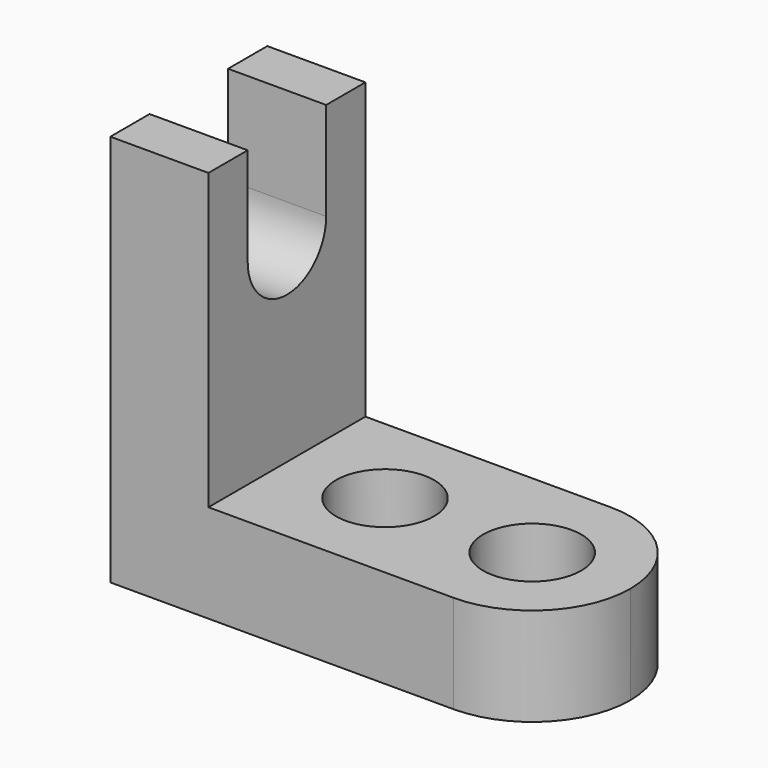
from build123d import *

# Parameters (mm, degrees)
F1_DEPTH = 50.8
F3_DEPTH = 25.4
F5_DEPTH = 12.7
F6_DEPTH = 12.7
F8_DEPTH = 25.401
F4_R     = 12.7
F9_DEPTH = 25.401


with BuildPart() as f1:
    # F0 (on Front) → F1 (new body)
    with BuildSketch(Plane.XZ):
        Polygon((-36.9852854972, 36.8870242119), (-62.3852854972, 36.8870242119), (-62.3852854972, -64.7129757881), (64.6147145028, -64.7129757881), (64.6147145028, -39.3129757881), (-36.9852854972, -39.3129757881), align=None)
    extrude(amount=F1_DEPTH)

    # F2 (on face) → F3 (cut)
    with BuildSketch(Plane.XY.offset(-39.3129757881)):
        with BuildLine():
            ThreePointArc((64.6147145028, -25.4), (57.1752267449, -43.3605122421), (39.2147145028, -50.8))
            Line((39.2147145028, -50.8), (64.6147145028, -50.8))
            Line((64.6147145028, -50.8), (64.6147145028, -25.4))
        make_face()
        with BuildLine():
            ThreePointArc((39.2147145028, 0), (57.1752267449, -7.4394877579), (64.6147145028, -25.4))
            Line((64.6147145028, -25.4), (64.6147145028, 0))
            Line((64.6147145028, 0), (39.2147145028, 0))
        make_face()
    extrude(amount=-F3_DEPTH, mode=Mode.SUBTRACT)

    # F5 (add): a face of the model
    f5_faces = [f1.faces().sort_by_distance(p)[0] for p in [
        (-36.9852854972, -25.4, -1.2129757881),
    ]]
    extrude(f5_faces, amount=F5_DEPTH)

    # F6 (cut): a face of the model
    f6_faces = [f1.faces().sort_by_distance(p)[0] for p in [
        (-62.3852854972, -25.4, -13.9129757881),
    ]]
    extrude(f6_faces, amount=-F6_DEPTH, mode=Mode.SUBTRACT)

    # F7 (on face) → F8 (cut, through all)
    with BuildSketch(Plane.YZ.offset(-24.2852854972)):
        with BuildLine():
            Line((-38.1, 36.8870242119), (-38.1, 11.4870242119))
            ThreePointArc((-38.1, 11.4870242119), (-25.4, -1.2129757881), (-12.7, 11.4870242119))
            Line((-12.7, 11.4870242119), (-12.7, 36.8870242119))
            Line((-12.7, 36.8870242119), (-38.1, 36.8870242119))
        make_face()
    extrude(amount=-F8_DEPTH, mode=Mode.SUBTRACT)

    # F4 (on face) → F9 (cut, through all)
    with BuildSketch(Plane.XY.offset(-39.3129757881)):
        with Locations((1.1147145028, -25.4)):
            Circle(F4_R)
        with Locations((39.2147145028, -25.4)):
            Circle(F4_R)
    extrude(amount=-F9_DEPTH, mode=Mode.SUBTRACT)


solid = f1.part
